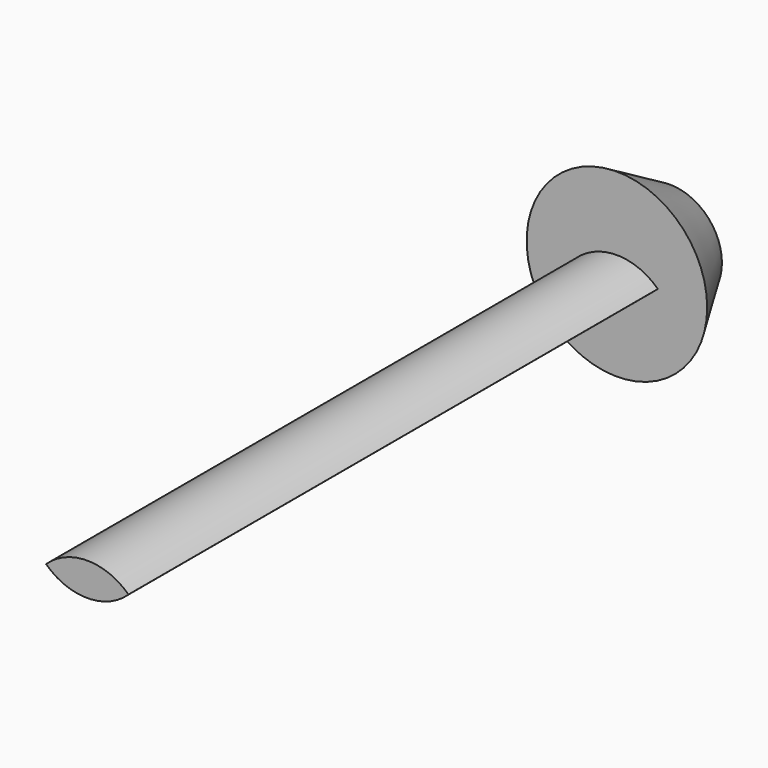
from build123d import *

# Parameters (mm, degrees)
F1_DEPTH = 165
F2_R     = 11.8005388937
F3_DEPTH = 15
F3_TAPER = -30


with BuildPart() as f1:
    # F0 (on Front) → F1 (new body)
    with BuildSketch(Plane.XZ):
        with BuildLine():
            ThreePointArc((-19.8672618717, 23.4238151461), (-10.5285700411, 19.6710911293), (-1.1898782104, 23.4238151461))
            ThreePointArc((-1.1898782104, 23.4238151461), (-10.5285700411, 27.1667508864), (-19.8672618717, 23.4238151461))
        make_face()
    extrude(amount=F1_DEPTH)

    # F2 (on Front) → F3 (join)
    with BuildSketch(Plane.XZ):
        with Locations((-10.4701621458, 23.3594216406)):
            Circle(F2_R)
    extrude(amount=F3_DEPTH, taper=F3_TAPER)


solid = f1.part
